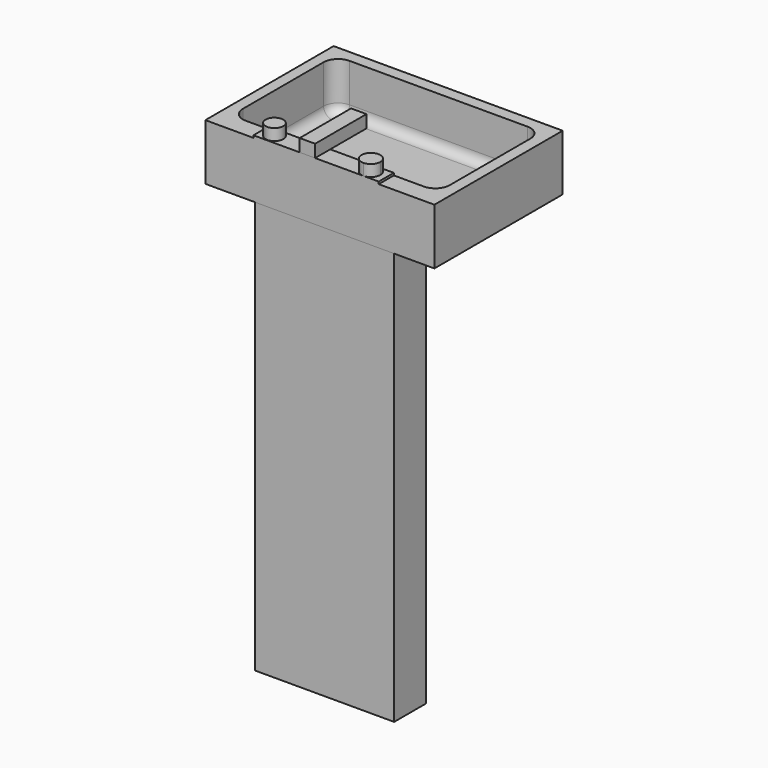
from build123d import *

# Parameters (mm, degrees)
F0_W      = 304.8
F0_H      = 213.36
F1_DEPTH  = 74.676
F2_W      = 185.373365
F2_H      = 52.738387
F3_DEPTH  = 548.64
F4_W      = 275.173626
F4_H      = 172.544763
F5_DEPTH  = 64.008
F6_R      = 19.13216
F7_R      = 12.509489
F8_W      = 166.771896
F8_H      = 25.149602
F9_DEPTH  = 3.048
F10_R     = 11.782972
F11_DEPTH = 15.24
F12_W     = 20.525783
F12_H     = 85.444051
F13_DEPTH = 16.764


with BuildPart() as f1:
    # F0 (on Top) → F1 (new body)
    with BuildSketch(Plane.XY):
        with Locations((152.4, -106.68)):
            Rectangle(F0_W, F0_H)
    extrude(amount=F1_DEPTH)

    # F2 (on face) → F3 (join)
    with BuildSketch(Plane(origin=(0, 0, 0), x_dir=(1, 0, 0), z_dir=(0, 0, -1))):
        with Locations((158.558696, 186.990806)):
            Rectangle(F2_W, F2_H)
    extrude(amount=F3_DEPTH)

    # F4 (on face) → F5 (cut)
    with BuildSketch(Plane.XY.offset(74.676)):
        with Locations((152.144392, -101.938017)):
            Rectangle(F4_W, F4_H)
    extrude(amount=-F5_DEPTH, mode=Mode.SUBTRACT)

    # F6
    f6_edges = [f1.edges().sort_by_distance(p)[0] for p in [
        (289.731205, -188.210398, 42.672),
        (14.557579, -188.210398, 42.672),
        (14.557579, -15.665635, 42.672),
        (289.731205, -15.665635, 42.672),
    ]]
    fillet(f6_edges, radius=F6_R)

    # F7
    f7_edges = [f1.edges().sort_by_distance(p)[0] for p in [
        (152.144392, -15.665635, 10.668),
        (284.127525, -21.269315, 10.668),
        (20.161258, -21.269315, 10.668),
        (289.731205, -101.938017, 10.668),
        (14.557579, -101.938017, 10.668),
        (284.127525, -182.606718, 10.668),
        (20.161258, -182.606718, 10.668),
        (152.144392, -188.210398, 10.668),
    ]]
    fillet(f7_edges, radius=F7_R)

    # F8 (on face) → F9 (join)
    with BuildSketch(Plane.XY.offset(74.676)):
        with Locations((147.333663, -200.785199)):
            Rectangle(F8_W, F8_H)
    extrude(amount=F9_DEPTH)

    # F10 (on face) → F11 (join)
    with BuildSketch(Plane.XY.offset(77.724)):
        with Locations((81.907772, -200.785199)):
            Circle(F10_R)
        with BuildLine():
            ThreePointArc((210.193843, -213.36), (219.08557, -209.676926), (222.768644, -200.785199))
            ThreePointArc((222.768644, -200.785199), (219.08557, -191.893472), (210.193843, -188.210398))
            ThreePointArc((210.193843, -188.210398), (197.619042, -200.785199), (210.193843, -213.36))
        make_face()
    extrude(amount=F11_DEPTH)

    # F12 (on face) → F13 (join)
    with BuildSketch(Plane.XY.offset(77.724)):
        with Locations((135.787919, -170.637974)):
            Rectangle(F12_W, F12_H)
    extrude(amount=F13_DEPTH)


solid = f1.part
